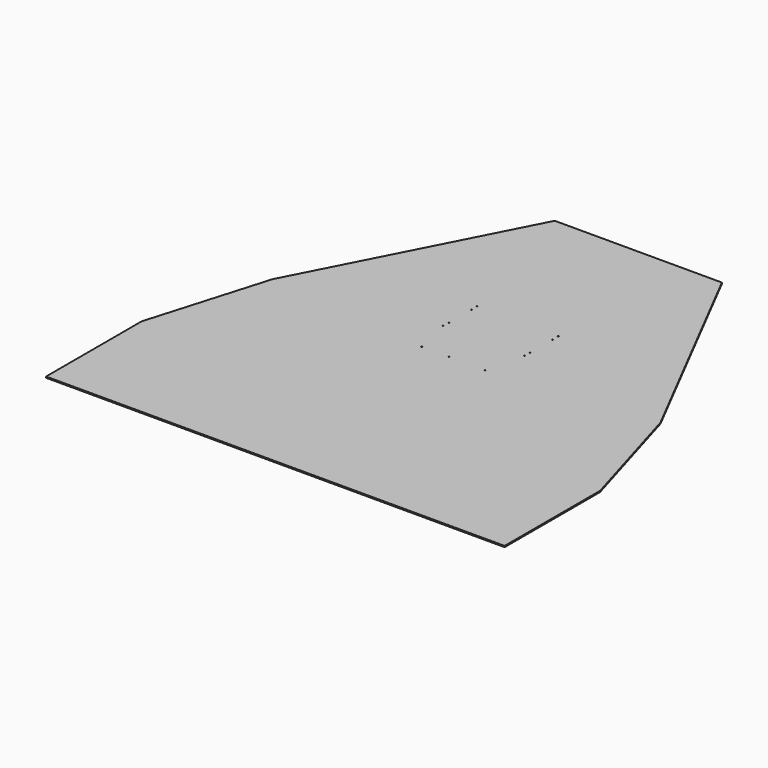
from build123d import *

# Parameters (mm, degrees)
F0_R     = 2.05
F1_DEPTH = 5


with BuildPart() as f1:
    # F0 (on Top) → F1 (new body)
    with BuildSketch(Plane.XY):
        Polygon((-960, -460), (-960, -960), (960, -960), (960, -460), (812.5, 40), (555.555556, 540), (-555.555556, 540), (-812.5, 40), align=None)
        with Locations((-132.5, -28.5)):
            Circle(F0_R, mode=Mode.SUBTRACT)
        with Locations((-17.5, -28.5)):
            Circle(F0_R, mode=Mode.SUBTRACT)
        with Locations((132.5, -28.5)):
            Circle(F0_R, mode=Mode.SUBTRACT)
        with Locations((-170, 130.5)):
            Circle(F0_R, mode=Mode.SUBTRACT)
        with Locations((-170, 160.5)):
            Circle(F0_R, mode=Mode.SUBTRACT)
        with Locations((-170, 278.5)):
            Circle(F0_R, mode=Mode.SUBTRACT)
        with Locations((-170, 308.5)):
            Circle(F0_R, mode=Mode.SUBTRACT)
        with Locations((170, 130.5)):
            Circle(F0_R, mode=Mode.SUBTRACT)
        with Locations((170, 160.5)):
            Circle(F0_R, mode=Mode.SUBTRACT)
        with Locations((170, 278.5)):
            Circle(F0_R, mode=Mode.SUBTRACT)
        with Locations((170, 308.5)):
            Circle(F0_R, mode=Mode.SUBTRACT)
        Polygon((-350, 940), (-555.555556, 540), (555.555556, 540), (350, 940), align=None)
    extrude(amount=-F1_DEPTH)


solid = f1.part
